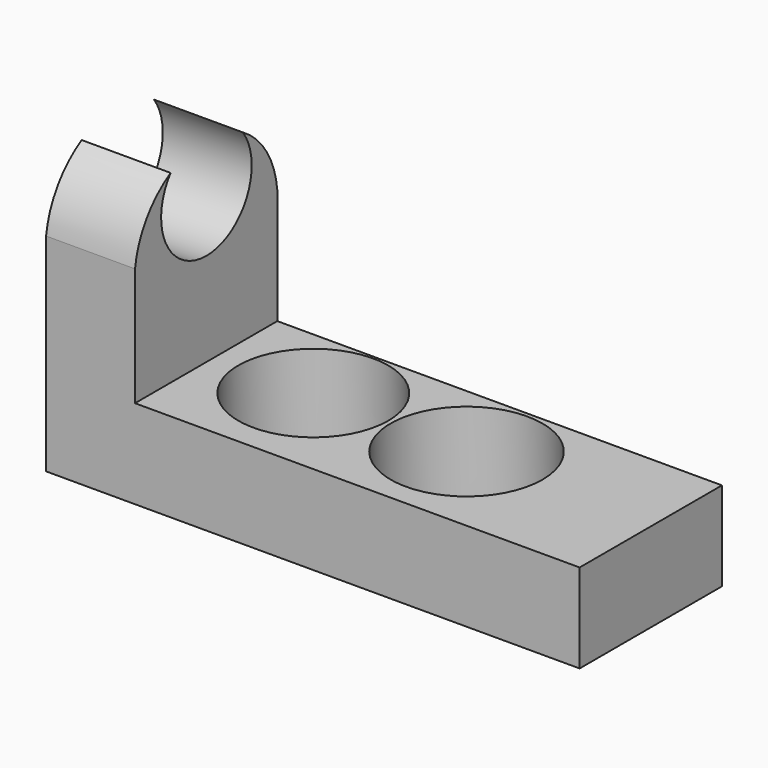
from build123d import *

# Parameters (mm, degrees)
F1_DEPTH = 25.4
F4_DEPTH = 25.4
F6_DEPTH = 25.4
F7_R     = 10.7031711433
F7_R_2   = 10.853136357
F8_DEPTH = 25.4


with BuildPart() as f1:
    # F0 (on Front) → F1 (new body)
    with BuildSketch(Plane.XZ):
        Polygon((-20.5684766621, 44.45), (-33.2684766621, 44.45), (-33.2684766621, 0), (42.9315233379, 0), (42.9315233379, 12.7), (-20.5684766621, 12.7), align=None)
    extrude(amount=F1_DEPTH)

    # F3 (on face) → F4 (cut)
    with BuildSketch(Plane.YZ.offset(-20.5684766621)):
        with BuildLine():
            ThreePointArc((-25.4, 29.5939260799), (-12.5203138917, 40.7445202451), (0, 29.1918666739))
            Line((0, 29.1918666739), (0, 44.45))
            Line((0, 44.45), (-25.4, 44.45))
            Line((-25.4, 44.45), (-25.4, 29.5939260799))
        make_face()
    extrude(amount=-F4_DEPTH, mode=Mode.SUBTRACT)

    # F5 (on face) → F6 (cut)
    with BuildSketch(Plane.YZ.offset(-20.5684766621)):
        with BuildLine():
            ThreePointArc((-6.1516358245, 38.9277270751), (-12.5777297237, 40.7453000896), (-19.0433743714, 39.0738654502))
            ThreePointArc((-19.0433743714, 39.0738654502), (-12.7443611857, 26.0457440008), (-6.1516358245, 38.9277270751))
        make_face()
    extrude(amount=-F6_DEPTH, mode=Mode.SUBTRACT)

    # F7 (on face) → F8 (cut)
    with BuildSketch(Plane.XY.offset(12.7)):
        with Locations((-6.5744994208, -11.0673578456)):
            Circle(F7_R)
        with Locations((15.5932949856, -11.4149535075)):
            Circle(F7_R_2)
    extrude(amount=-F8_DEPTH, mode=Mode.SUBTRACT)


solid = f1.part
